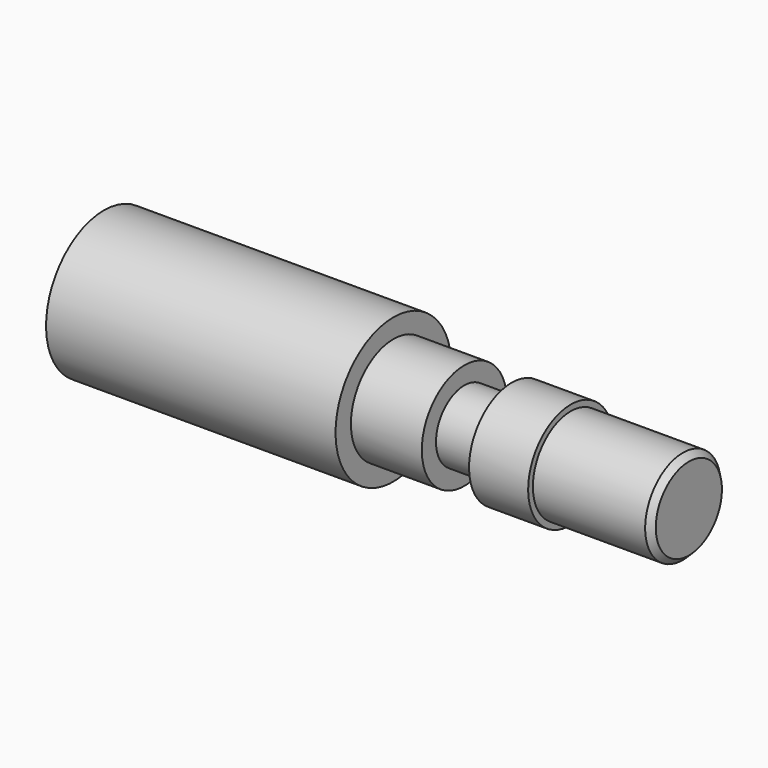
from build123d import *

# Parameters (mm, degrees)
F2_SIZE = 1
F3_SIZE = 1


with BuildPart() as f1:
    # F0 (on Front) → F1 (revolve)
    with BuildSketch(Plane.XZ):
        Polygon((-49, 8), (-29, 8), (-29, 6.75), (-26, 6.75), (-26, 4.28064), (-23.732601, 0), (50, 0), (50, 8), (30, 8), (30, 9), (20, 9), (20, 6), (12, 6), (12, 9), (0, 9), (0, 12.25), (-49, 12.25), align=None)
    revolve(axis=Axis((13.1337, 0, 0), (1, 0, 0)))

    # F2
    f2_edges = [f1.edges().sort_by_distance(p)[0] for p in [
        (50, 0, -8),
    ]]
    chamfer(f2_edges, length=F2_SIZE)

    # F3
    f3_edges = [f1.edges().sort_by_distance(p)[0] for p in [
        (-49, 0, -8),
    ]]
    chamfer(f3_edges, length=F3_SIZE)


solid = f1.part
